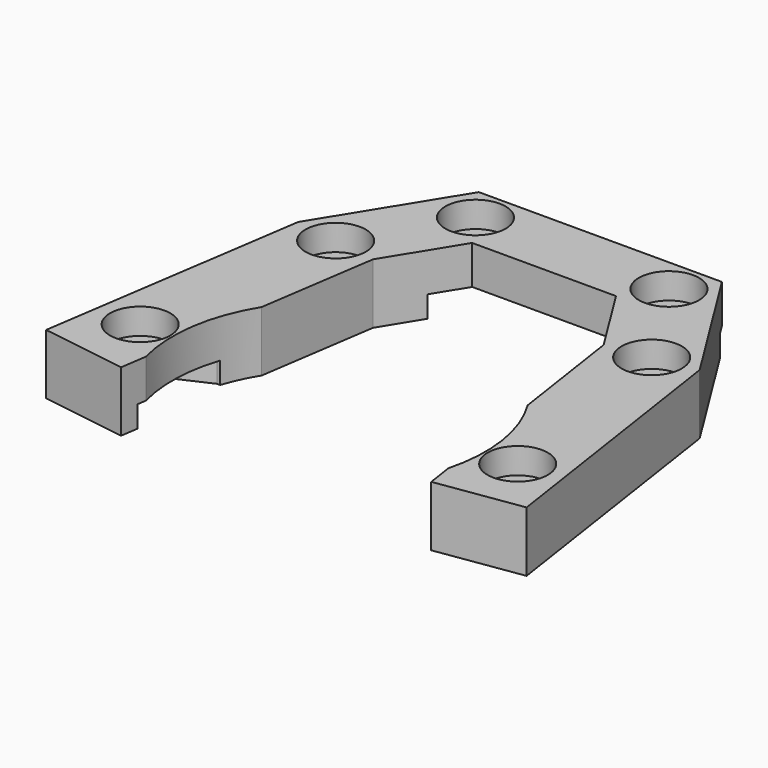
from build123d import *

# Parameters (mm, degrees)
PAD020_DEPTH    = 7
SKETCH043_W     = 30
SKETCH043_H     = 11.8536046546
POCKET018_DEPTH = 2.5
SKETCH044_R     = 1.5
POCKET019_DEPTH = 10
SKETCH045_R     = 3.5
POCKET020_DEPTH = 3
SKETCH046_R     = 18.15
POCKET021_DEPTH = 10
POCKET022_DEPTH = 2.5


with BuildPart() as part:
    # Sketch042 → Pad020 (new body)
    with BuildSketch(Plane.XY):
        Polygon((-12.8493066257, -33.7940933811), (-8.2452066191, -2.9618052463), (0.8857658642, 11.8536046546), (29.1142341358, 11.8536046546), (38.335521046, -2.8996050949), (42.948959357, -33.794429076), (33.0593993066, -35.2712096281), (28.4644789539, -4.5003949051), (23.3502319582, 3.6819292513), (6.6497680418, 3.6819292513), (1.6452066191, -4.4381947537), (-2.9589691174, -35.2709900288), align=None)
    extrude(amount=PAD020_DEPTH)

    # Sketch043 (on Face13 of Pad020) → Pocket018 (cut)
    with BuildSketch(Plane(origin=(0, 0, 0), x_dir=(1, 0, 0), z_dir=(0, 0, -1))):
        with Locations((15, -5.9268023273)):
            Rectangle(SKETCH043_W, SKETCH043_H)
    extrude(amount=-POCKET018_DEPTH, mode=Mode.SUBTRACT)

    # Sketch044 (on Face5 of Pocket018) → Pocket019 (cut)
    with BuildSketch(Plane.XY.offset(7)):
        with Locations((3.767766953, 7.767766953)):
            Circle(SKETCH044_R)
        with Locations((26.232233047, 7.767766953)):
            Circle(SKETCH044_R)
        with Locations((-6.8703102168, -27.60930544)):
            Circle(SKETCH044_R)
        with Locations((36.9703102168, -27.60930544)):
            Circle(SKETCH044_R)
        with Locations((33.4, -3.7)):
            Circle(SKETCH044_R)
        with Locations((-3.3, -3.7)):
            Circle(SKETCH044_R)
    extrude(amount=-POCKET019_DEPTH, mode=Mode.SUBTRACT)

    # Sketch045 (on Face5 of Pocket019) → Pocket020 (cut)
    with BuildSketch(Plane.XY.offset(7)):
        with Locations((36.9703102168, -27.60930544)):
            Circle(SKETCH045_R)
        with Locations((33.4, -3.7)):
            Circle(SKETCH045_R)
        with Locations((26.232233047, 7.767766953)):
            Circle(SKETCH045_R)
        with Locations((3.767766953, 7.767766953)):
            Circle(SKETCH045_R)
        with Locations((-3.3, -3.7)):
            Circle(SKETCH045_R)
        with Locations((-6.8703102168, -27.60930544)):
            Circle(SKETCH045_R)
    extrude(amount=-POCKET020_DEPTH, mode=Mode.SUBTRACT)

    # Sketch046 (on Face5 of Pocket020) → Pocket021 (cut)
    with BuildSketch(Plane.XY.offset(7)):
        with Locations((15.05, -27.60930544)):
            Circle(SKETCH046_R)
    extrude(amount=-POCKET021_DEPTH, mode=Mode.SUBTRACT)

    # Sketch047 (on Face4 of Pocket021) → Pocket022 (cut)
    with BuildSketch(Plane(origin=(0, 0, 0), x_dir=(1, 0, 0), z_dir=(0, 0, -1))):
        with BuildLine():
            ThreePointArc((-8.3120846255, 30.7022032745), (-10.3000000009, 27.6093139691), (-8.3121001429, 24.5164146902))
            Line((-8.3121001429, 24.5164146902), (-2.5265008251, 21.8749228678))
            Line((-2.5265008251, 21.8749228678), (32.6264961364, 21.8749207273))
            Line((38.4120727539, 24.5164021866), (32.6264961364, 21.8749207273))
            ThreePointArc((38.4120727539, 24.5164021867), (40.3999999994, 27.6092903858), (38.4121001427, 30.7021961887))
            Line((32.6265008251, 33.3436880121), (38.4121001427, 30.7021961887))
            Line((-2.5265008251, 33.3436880122), (32.6265008251, 33.3436880121))
            Line((-8.3120846255, 30.7022032745), (-2.5265008251, 33.3436880122))
        make_face()
    extrude(amount=-POCKET022_DEPTH, mode=Mode.SUBTRACT)


with BuildPart() as part_1:
    # Body005 placement: moved
    add(part.part.moved(Location((0, 0, 2.5))))


solid = part_1.part
